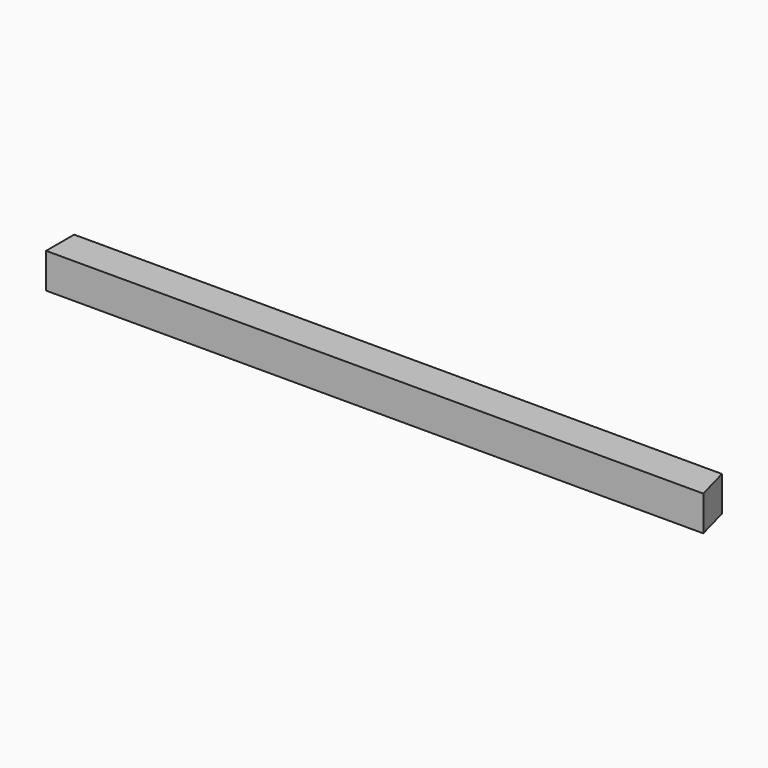
from build123d import *

# Parameters (mm, degrees)
F0_W     = 101.6
F0_H     = 101.6
F1_DEPTH = 1905
F3_DEPTH = 127


with BuildPart() as f1:
    # F0 (on Right) → F1 (new body)
    with BuildSketch(Plane.YZ):
        with Locations((50.8, -50.8)):
            Rectangle(F0_W, F0_H)
    extrude(amount=F1_DEPTH)

    # F2 (on Top) → F3 (cut)
    with BuildSketch(Plane.XY):
        Polygon((1905, 101.6), (1877.776362, 101.6), (1905, 0), align=None)
    extrude(amount=-F3_DEPTH, mode=Mode.SUBTRACT)


solid = f1.part
